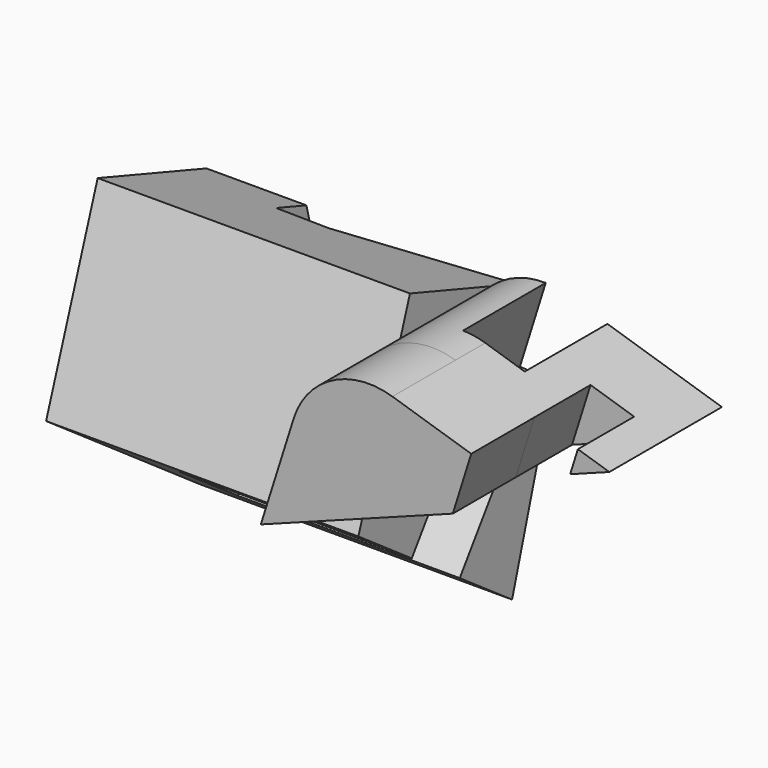
from build123d import *

# Parameters (mm, degrees)
F1_DEPTH = 45.3683566302
F2_W     = 20.5338352643
F2_H     = 33.3187319338
F2_W_2   = 14.7568359971
F2_H_2   = 22.6841783151
F3_DEPTH = 93.0456835777
F4_R     = 25.4
F5_DEPTH = 25.4
F7_DEPTH = 100.7131207734
F9_DEPTH = 137.8182396293


with BuildPart() as f1:
    # F0 (on Front) → F1 (new body)
    with BuildSketch(Plane.XZ):
        Polygon((0, 0), (92.0885801315, 34.503582865), (18.2516984642, 57.7072314918), align=None)
    extrude(amount=F1_DEPTH)

    # F2 (on face) → F3 (cut)
    with BuildSketch(Plane(origin=(18.145322164, 0, 57.7406608327), x_dir=(0.9540019522, 0, -0.2998003923), z_dir=(0.2998003923, 0, 0.9540019522))):
        with Locations((28.543083803, -16.6593659669)):
            Rectangle(F2_W, F2_H)
        with Locations((59.4902671874, -34.0262674727)):
            Rectangle(F2_W_2, F2_H_2)
    extrude(amount=-F3_DEPTH, mode=Mode.SUBTRACT)

    # F4
    f4_edges = [f1.edges().sort_by_distance(p)[0] for p in [
        (18.251698, -22.684178, 57.707231),
    ]]
    fillet(f4_edges, radius=F4_R)

    # F3_face (on face) → F5 (join)
    with BuildSketch(Plane(origin=(33.0328934658, -45.3683566302, 29.0065580598), x_dir=(1, 0, 0), z_dir=(0, -1, 0))):
        with BuildLine():
            Line((-22.4266559228, 4.5276692535), (-33.0328934658, -29.0065580598))
            Line((-33.0328934658, -29.0065580598), (28.8816881862, -5.8085144421))
            Line((28.8816881862, -5.8085144421), (34.8272345569, 13.1109499441))
            Line((34.8272345569, 13.1109499441), (9.4058534529, 21.0997596206))
            ThreePointArc((9.4058534529, 21.0997596206), (-9.9381232307, 19.3978562172), (-22.4266559228, 4.5276692535))
        make_face()
    extrude(amount=F5_DEPTH)


with BuildPart() as f7:
    # F6 (on Right) → F7 (new body)
    with BuildSketch(Plane.YZ):
        Polygon((44.2555435002, -15.9842148423), (33.2021676004, 26.0598286986), (-10.6371901929, 41.1229655147), (-31.4333016958, -19.4014912449), (30.5266529322, -62.5218972564), align=None)
    extrude(amount=-F7_DEPTH)

    # F8 (on face) → F9 (cut)
    with BuildSketch(Plane(origin=(0, -19.3531034318, -27.8085834865), x_dir=(1, 0, 0), z_dir=(0, -0.5712236373, -0.8207944665))):
        Polygon((0, -11.4934974662), (0, -35.0619731547), (11.7985904217, -35.8652435243), (7.1338117123, -13.1969898939), align=None)
        Polygon((-51.0072931647, 0.6866022013), (-68.487226963, 0), (-68.487226963, -30.3992331028), (0, -35.0619731547), (0, -11.4934974662), align=None)
    extrude(amount=-F9_DEPTH, mode=Mode.SUBTRACT)


solid = Compound([f1.part, f7.part])
